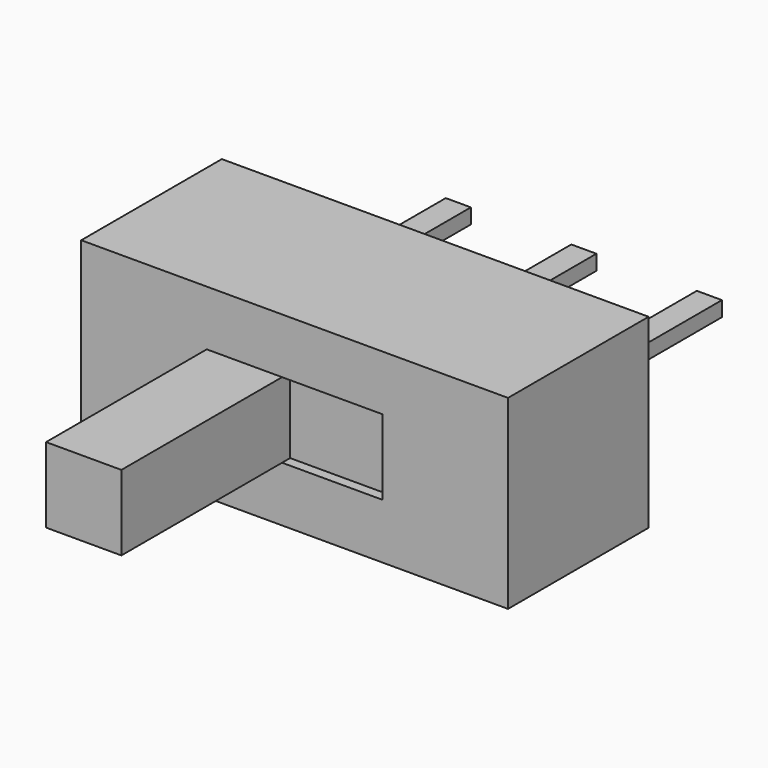
from build123d import *

# Parameters (mm, degrees)
F0_W     = 8.5
F0_H     = 3.7
F1_DEPTH = 1.75
F2_W     = 0.5
F2_H     = 0.3
F3_DEPTH = 3.7
F4_W     = 2
F4_H     = 1.5
F5_DEPTH = 0.2
F4_W_2   = 1.5
F6_DEPTH = 4


with BuildPart() as f1:
    # F0 (on Front) → F1 (new body, symmetric)
    with BuildSketch(Plane.XZ):
        Rectangle(F0_W, F0_H)
    extrude(amount=F1_DEPTH, both=True)

    # F2 (on face) → F3 (join)
    with BuildSketch(Plane(origin=(0, 1.75, 0), x_dir=(-1, 0, 0), z_dir=(0, 1, 0))):
        Rectangle(F2_W, F2_H)
        with Locations((2.5, 0)):
            Rectangle(F2_W, F2_H)
        with Locations((-2.5, 0)):
            Rectangle(F2_W, F2_H)
    extrude(amount=F3_DEPTH)

    # F4 (on face) → F5 (cut)
    with BuildSketch(Plane.XZ.offset(1.75)):
        with Locations((0.75, 0)):
            Rectangle(F4_W, F4_H)
    extrude(amount=-F5_DEPTH, mode=Mode.SUBTRACT)

    # F4 (on face) → F6 (join)
    with BuildSketch(Plane.XZ.offset(1.75)):
        with Locations((-1, 0)):
            Rectangle(F4_W_2, F4_H)
    extrude(amount=F6_DEPTH)


solid = f1.part
